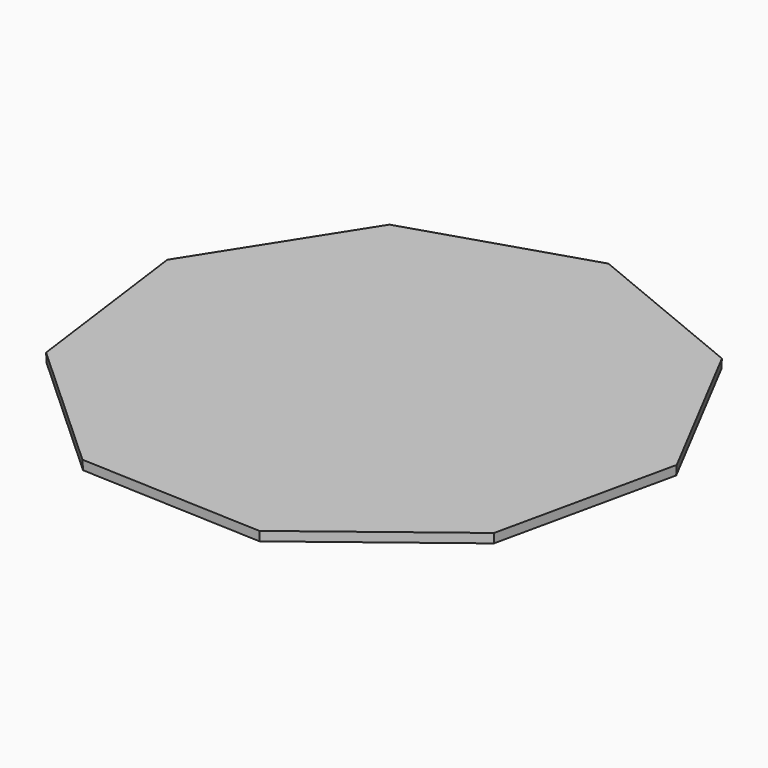
from build123d import *

# Parameters (mm, degrees)
F1_DEPTH = 2
F1_TAPER = -3


with BuildPart() as f1:
    # F0 (on Top) → F1 (new body)
    with BuildSketch(Plane.XY):
        Polygon((13.659414343, 110.7567119686), (42.2238484025, 84.645152092), (80.8896615428, 83.0034010385), (111.5646900731, 106.599652372), (119.8957472289, 144.3929578505), (101.9846387777, 178.6994098148), (66.2121714237, 193.466638117), (29.3166802084, 181.7848925151), (8.5619755192, 149.1201916043), align=None)
    extrude(amount=F1_DEPTH, taper=F1_TAPER)


solid = f1.part
